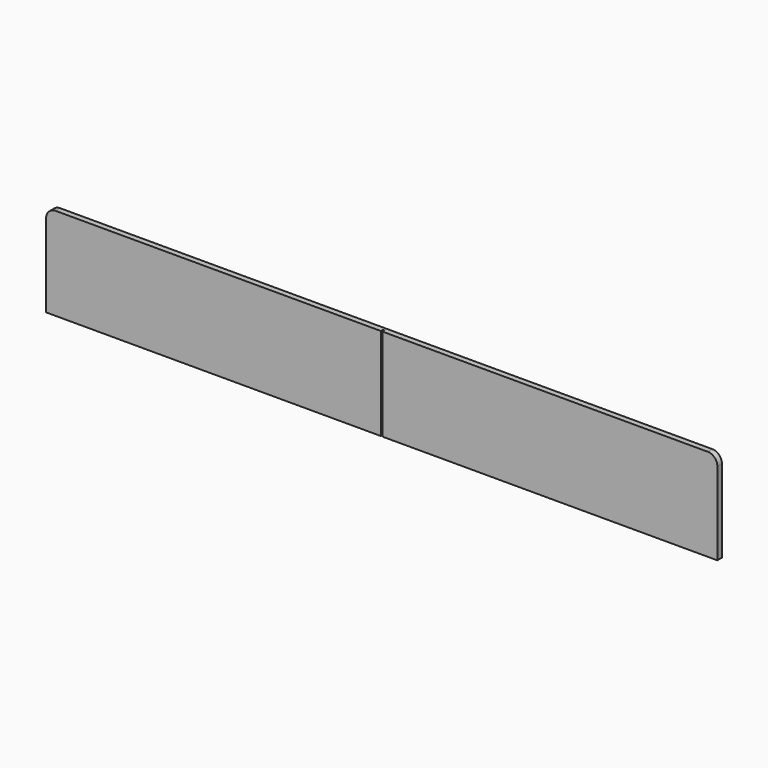
from build123d import *

# Parameters (mm, degrees)
F1_DEPTH = 4
F3_DEPTH = 5


with BuildPart() as f1:
    # F0 (on Front) → F1 (new body)
    with BuildSketch(Plane.XZ):
        with BuildLine():
            Line((1.3, 145), (1.3, 0))
            Line((1.3, 0), (526.2, 0))
            Line((526.2, 0), (526.2, 130))
            ThreePointArc((526.2, 130), (521.806602, 140.606602), (511.2, 145))
            Line((511.2, 145), (1.3, 145))
        make_face()
        with BuildLine():
            ThreePointArc((-511.2, 145), (-521.806602, 140.606602), (-526.2, 130))
            Line((-526.2, 130), (-526.2, 0))
            Line((-526.2, 0), (-1.3, 0))
            Line((-1.3, 0), (-1.3, 145))
            Line((-1.3, 145), (-511.2, 145))
        make_face()
    extrude(amount=F1_DEPTH)

    # F2 (on face) → F3 (join)
    with BuildSketch(Plane(origin=(0, 0, 0), x_dir=(-1, 0, 0), z_dir=(0, 1, 0))):
        with BuildLine():
            ThreePointArc((-511.2, 145), (-521.806602, 140.606602), (-526.2, 130))
            Line((-526.2, 130), (-526.2, 0))
            Line((-526.2, 0), (526.2, 0))
            Line((526.2, 0), (526.2, 130))
            ThreePointArc((526.2, 130), (521.806602, 140.606602), (511.2, 145))
            Line((511.2, 145), (-511.2, 145))
        make_face()
    extrude(amount=F3_DEPTH)


solid = f1.part
